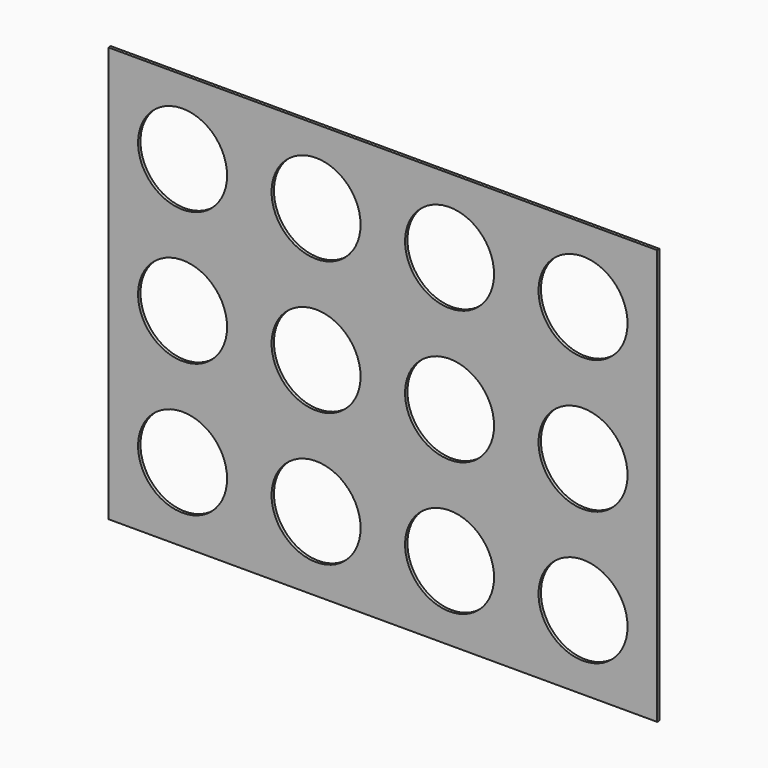
from build123d import *

# Parameters (mm, degrees)
F0_W     = 1850
F0_H     = 1400
F0_R     = 150
F1_DEPTH = 10


with BuildPart() as f1:
    # F0 (on Front) → F1 (new body)
    with BuildSketch(Plane.XZ):
        Rectangle(F0_W, F0_H)
        with Locations((-675, -450)):
            Circle(F0_R, mode=Mode.SUBTRACT)
        with Locations((-225, -450)):
            Circle(F0_R, mode=Mode.SUBTRACT)
        with Locations((225, -450)):
            Circle(F0_R, mode=Mode.SUBTRACT)
        with Locations((675, -450)):
            Circle(F0_R, mode=Mode.SUBTRACT)
        with Locations((-675, 0)):
            Circle(F0_R, mode=Mode.SUBTRACT)
        with Locations((-225, 0)):
            Circle(F0_R, mode=Mode.SUBTRACT)
        with Locations((-675, 450)):
            Circle(F0_R, mode=Mode.SUBTRACT)
        with Locations((-225, 450)):
            Circle(F0_R, mode=Mode.SUBTRACT)
        with Locations((225, 0)):
            Circle(F0_R, mode=Mode.SUBTRACT)
        with Locations((675, 0)):
            Circle(F0_R, mode=Mode.SUBTRACT)
        with Locations((225, 450)):
            Circle(F0_R, mode=Mode.SUBTRACT)
        with Locations((675, 450)):
            Circle(F0_R, mode=Mode.SUBTRACT)
    extrude(amount=F1_DEPTH)


solid = f1.part
